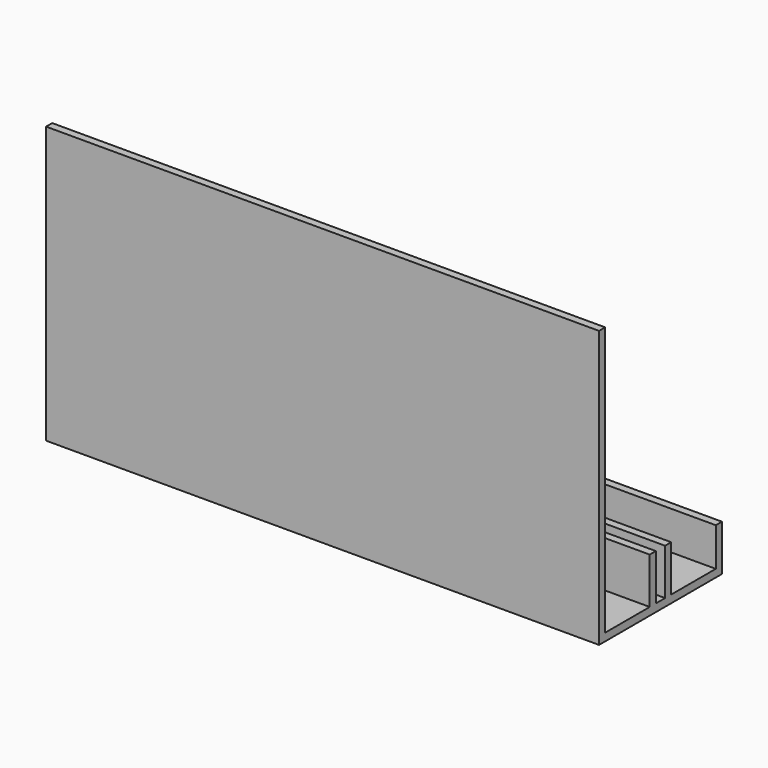
from build123d import *

# Parameters (mm, degrees)
F0_W     = 457.2
F0_H     = 25.4
F1_DEPTH = 914.4
F2_W     = 25.4
F2_H     = 152.4
F3_DEPTH = 1828.8


with BuildPart() as f1:
    # F0 (on Right) → F1 (new body, symmetric)
    with BuildSketch(Plane.YZ):
        Polygon((-228.6, 457.2), (-254, 457.2), (-254, -457.2), (-228.6, -457.2), (-228.6, -431.8), align=None)
        with Locations((0, -444.5)):
            Rectangle(F0_W, F0_H)
        Polygon((228.6, -304.8), (228.6, -431.8), (228.6, -457.2), (254, -457.2), (254, -304.8), align=None)
    extrude(amount=F1_DEPTH, both=True)

    # F2 (on face) → F3 (join)
    with BuildSketch(Plane.YZ.offset(914.4)):
        with Locations((-31.75, -355.6)):
            Rectangle(F2_W, F2_H)
        with Locations((31.75, -355.6)):
            Rectangle(F2_W, F2_H)
    extrude(amount=-F3_DEPTH)


solid = f1.part
